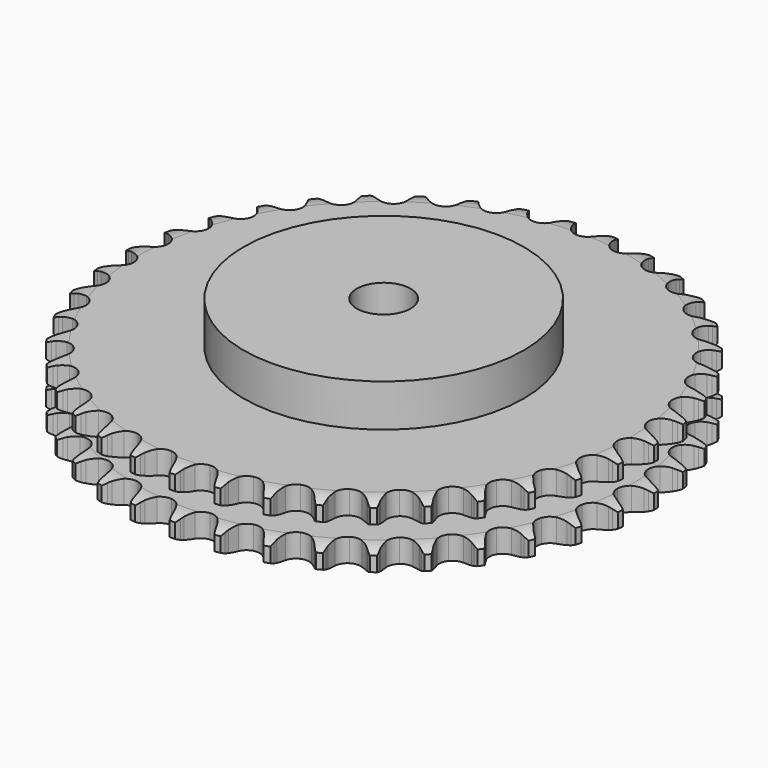
from build123d import *

# Parameters (mm, degrees)
PAD_DEPTH         = 30.3
SKETCH001_R       = 65
PAD001_DEPTH      = 50
SKETCH002_R       = 12.5
POCKET_DEPTH      = 0.001
POCKET_DEPTH_BACK = 50.001


with BuildPart() as part:
    # Sprocket → Pad (new body)
    with BuildSketch(Plane.XY):
        with BuildLine():
            ThreePointArc((-10.012439, 124.026308), (-8.619754, 122.325503), (-7.64164, 120.35685))
            Line((-7.64164, 120.35685), (-7.053101, 118.737597))
            ThreePointArc((-7.053101, 118.737597), (-6.12318, 116.660231), (-4.903721, 114.738481))
            ThreePointArc((-4.903721, 114.738481), (-2.745245, 112.921123), (0, 112.268866))
            ThreePointArc((0, 112.268866), (2.745245, 112.921123), (4.903721, 114.738481))
            ThreePointArc((4.903721, 114.738481), (6.12318, 116.660231), (7.053101, 118.737597))
            Line((7.053101, 118.737597), (7.64164, 120.35685))
            ThreePointArc((7.64164, 120.35685), (8.619754, 122.325503), (10.012439, 124.026308))
            ThreePointArc((10.012439, 124.026308), (11.11426, 122.124126), (11.763914, 120.024066))
            Line((11.763914, 120.024066), (12.085085, 118.331373))
            ThreePointArc((12.085085, 118.331373), (12.66973, 116.131739), (13.565127, 114.03926))
            ThreePointArc((13.565127, 114.03926), (15.404127, 111.899192), (18.009193, 110.815013))
            ThreePointArc((18.009193, 110.815013), (20.823517, 111.018456), (23.245566, 112.466036))
            Line((23.245566, 112.466036), (26.008615, 116.06858))
            ThreePointArc((26.008615, 116.06858), (26.40838, 116.832014), (26.849279, 117.572455))
            ThreePointArc((26.849279, 117.572455), (28.130521, 119.358715), (29.777999, 120.814091))
            ThreePointArc((29.777999, 120.814091), (30.560421, 118.759798), (30.864788, 116.582721))
            Line((30.864788, 116.582721), (30.910274, 114.860429))
            ThreePointArc((30.910274, 114.860429), (31.134502, 112.595496), (31.682646, 110.386482))
            ThreePointArc((31.682646, 110.386482), (33.15454, 107.979131), (35.551956, 106.49111))
            ThreePointArc((35.551956, 106.49111), (38.362471, 106.240469), (40.985363, 107.280779))
            Line((40.985363, 107.280779), (44.29052, 110.393447))
            ThreePointArc((44.29052, 110.393447), (44.807571, 111.082868), (45.361536, 111.742995))
            ThreePointArc((45.361536, 111.742995), (46.912723, 113.300598), (48.772325, 114.472854))
            ThreePointArc((48.772325, 114.472854), (49.215083, 112.319654), (49.166281, 110.121945))
            Line((49.166281, 110.121945), (48.934902, 108.41466))
            ThreePointArc((48.934902, 108.41466), (48.792906, 106.143088), (48.979601, 103.874752))
            ThreePointArc((48.979601, 103.874752), (50.046269, 101.262468), (52.173943, 99.409144))
            ThreePointArc((52.173943, 99.409144), (54.907856, 98.71091), (57.663661, 99.317007))
            Line((57.663661, 99.317007), (61.425323, 101.859182))
            ThreePointArc((61.425323, 101.859182), (62.04627, 102.456734), (62.698953, 103.019451))
            ThreePointArc((62.698953, 103.019451), (64.479909, 104.308055), (66.503473, 105.166829))
            ThreePointArc((66.503473, 105.166829), (66.5951, 102.970489), (66.194393, 100.809069))
            Line((66.194393, 100.809069), (65.692143, 99.161008))
            ThreePointArc((65.692143, 99.161008), (65.187599, 96.941631), (65.00801, 94.672721))
            ThreePointArc((65.00801, 94.672721), (65.641825, 91.923159), (67.444653, 89.752532))
            ThreePointArc((67.444653, 89.752532), (70.031157, 88.62479), (72.8485, 88.780976))
            Line((72.8485, 88.780976), (76.969243, 90.686817))
            ThreePointArc((76.969243, 90.686817), (77.678003, 91.177025), (78.4125, 91.627757))
            ThreePointArc((78.4125, 91.627757), (80.3771, 92.613988), (82.512216, 93.137039))
            ThreePointArc((82.512216, 93.137039), (82.250339, 90.954443), (81.508105, 88.88529))
            Line((81.508105, 88.88529), (80.747991, 87.339139))
            ThreePointArc((80.747991, 87.339139), (79.893968, 85.229436), (79.352746, 83.018716))
            ThreePointArc((79.352746, 83.018716), (79.537292, 80.203089), (80.968581, 77.771377))
            ThreePointArc((80.968581, 77.771377), (83.340688, 76.243334), (86.146601, 75.945564))
            Line((86.146601, 75.945564), (90.5197, 77.165712))
            ThreePointArc((90.5197, 77.165712), (91.297917, 77.535878), (92.095205, 77.862952))
            ThreePointArc((92.095205, 77.862952), (94.192566, 78.521268), (96.383937, 78.695049))
            ThreePointArc((96.383937, 78.695049), (95.775337, 76.582725), (94.710799, 74.65943))
            Line((94.710799, 74.65943), (93.712509, 73.255231))
            ThreePointArc((93.712509, 73.255231), (92.531125, 71.309843), (91.642288, 69.21457))
            ThreePointArc((91.642288, 69.21457), (91.372785, 66.405802), (92.395465, 63.775985))
            ThreePointArc((92.395465, 63.775985), (94.491739, 61.887217), (97.21355, 61.143203))
            Line((97.21355, 61.143203), (101.725744, 61.646055))
            ThreePointArc((101.725744, 61.646055), (102.553263, 61.886593), (103.392692, 62.081537))
            ThreePointArc((103.392692, 62.081537), (105.568494, 62.394888), (107.759364, 62.214898))
            ThreePointArc((107.759364, 62.214898), (106.819805, 60.227554), (105.460534, 58.499929))
            Line((105.460534, 58.499929), (104.249922, 57.274051))
            ThreePointArc((104.249922, 57.274051), (102.771775, 55.543363), (101.558342, 53.617803))
            ThreePointArc((101.558342, 53.617803), (100.841771, 50.888638), (101.429356, 48.128828))
            ThreePointArc((101.429356, 48.128828), (103.195504, 45.928253), (105.76272, 44.757264))
            Line((105.76272, 44.757264), (110.297145, 44.529798))
            ThreePointArc((110.297145, 44.529798), (111.152532, 44.634478), (112.012362, 44.692243))
            ThreePointArc((112.012362, 44.692243), (114.210254, 44.652513), (116.34388, 44.123413))
            ThreePointArc((116.34388, 44.123413), (115.097695, 42.312521), (113.478897, 40.825311))
            Line((113.478897, 40.825311), (112.087317, 39.809504))
            ThreePointArc((112.087317, 39.809504), (110.350689, 38.338339), (108.844088, 36.632362))
            ThreePointArc((108.844088, 36.632362), (107.699009, 34.053486), (107.836279, 31.235159))
            ThreePointArc((107.836279, 31.235159), (109.226559, 28.779771), (111.57269, 27.212136))
            Line((111.57269, 27.212136), (116.011908, 26.260242))
            ThreePointArc((116.011908, 26.260242), (116.87301, 26.226353), (117.730972, 26.145444))
            ThreePointArc((117.730972, 26.145444), (119.894028, 25.753661), (121.91515, 24.889156))
            ThreePointArc((121.91515, 24.889156), (120.394616, 23.301617), (118.558215, 22.093339))
            Line((118.558215, 22.093339), (117.021709, 21.313911))
            ThreePointArc((117.021709, 21.313911), (115.071579, 20.140372), (113.31083, 18.698163))
            ThreePointArc((113.31083, 18.698163), (111.766898, 16.336367), (111.450299, 13.532516))
            ThreePointArc((111.450299, 13.532516), (112.428704, 10.885908), (114.492987, 8.962228))
            Line((114.492987, 8.962228), (118.722024, 7.31056))
            ThreePointArc((118.722024, 7.31056), (119.566538, 7.138979), (120.400411, 6.921491))
            ThreePointArc((120.400411, 6.921491), (122.472609, 6.187804), (124.328882, 5.010283))
            ThreePointArc((124.328882, 5.010283), (122.57338, 3.687212), (120.566938, 2.789161))
            Line((120.566938, 2.789161), (118.9253, 2.266299))
            ThreePointArc((118.9253, 2.266299), (116.812175, 1.42078), (114.842881, 0.279692))
            ThreePointArc((114.842881, 0.279692), (112.940084, -1.803856), (112.177816, -4.520611))
            ThreePointArc((112.177816, -4.520611), (112.719004, -7.289894), (114.447975, -9.519797))
            Line((114.447975, -9.519797), (118.357301, -11.828461))
            ThreePointArc((118.357301, -11.828461), (119.163356, -12.13329), (119.951542, -12.481724))
            ThreePointArc((119.951542, -12.481724), (121.879215, -13.538315), (123.522562, -14.998354))
            ThreePointArc((123.522562, -14.998354), (121.577557, -16.022689), (119.453041, -16.587255))
            Line((119.453041, -16.587255), (117.748789, -16.840008))
            ThreePointArc((117.748789, -16.840008), (115.527397, -17.335609), (113.400562, -18.146024))
            ThreePointArc((113.400562, -18.146024), (111.18818, -19.89736), (109.999985, -22.456658))
            ThreePointArc((109.999985, -22.456658), (110.089941, -25.276891), (111.438821, -27.755265))
            Line((111.438821, -27.755265), (114.927186, -30.661132))
            ThreePointArc((114.927186, -30.661132), (115.673905, -31.091314), (116.395992, -31.56167))
            ThreePointArc((116.395992, -31.56167), (118.129213, -32.913798), (119.517072, -34.618542))
            ThreePointArc((119.517072, -34.618542), (117.43294, -35.317611), (115.245372, -35.53407))
            Line((115.245372, -35.53407), (113.522646, -35.510169))
            ThreePointArc((113.522646, -35.510169), (111.25052, -35.643015), (109.021227, -36.101767))
            ThreePointArc((109.021227, -36.101767), (106.556561, -37.475533), (104.973213, -39.811088))
            ThreePointArc((104.973213, -39.811088), (104.609607, -42.609231), (105.54346, -45.271885))
            Line((105.54346, -45.271885), (108.520518, -48.699696))
            ThreePointArc((108.520518, -48.699696), (109.188561, -49.244089), (109.825847, -49.824185))
            ThreePointArc((109.825847, -49.824185), (111.319726, -51.436832), (112.416152, -53.342128))
            ThreePointArc((112.416152, -53.342128), (110.246871, -53.697826), (108.052909, -53.560571))
            Line((108.052909, -53.560571), (106.356326, -53.260634))
            ThreePointArc((106.356326, -53.260634), (104.092314, -53.027286), (101.8183, -53.122493))
            ThreePointArc((101.8183, -53.122493), (99.165184, -54.083109), (97.22769, -56.134433))
            ThreePointArc((97.22769, -56.134433), (96.419939, -58.838014), (96.914579, -61.615988))
            Line((96.914579, -61.615988), (99.303225, -65.476963))
            ThreePointArc((99.303225, -65.476963), (99.87529, -66.121467), (100.41127, -66.796279))
            ThreePointArc((100.41127, -66.796279), (101.627116, -68.627678), (102.403714, -70.68418))
            ThreePointArc((102.403714, -70.68418), (100.205466, -70.687295), (98.061933, -70.199881))
            Line((98.061933, -70.199881), (96.435433, -69.631678))
            ThreePointArc((96.435433, -69.631678), (94.238171, -69.038178), (91.978333, -68.767375))
            ThreePointArc((91.978333, -68.767375), (89.20548, -69.289962), (86.96402, -71.003925))
            ThreePointArc((86.96402, -71.003925), (85.733045, -73.542923), (85.775661, -76.364269))
            Line((85.775661, -76.364269), (87.514031, -80.558411))
            ThreePointArc((87.514031, -80.558411), (87.975302, -81.286335), (88.396093, -82.038385))
            ThreePointArc((88.396093, -82.038385), (89.302418, -84.041103), (89.739073, -86.195549))
            ThreePointArc((89.739073, -86.195549), (87.568792, -85.846), (85.531204, -85.021051))
            Line((85.531204, -85.021051), (84.016913, -84.199297))
            ThreePointArc((84.016913, -84.199297), (81.943309, -83.261017), (79.756175, -82.631218))
            ThreePointArc((79.756175, -82.631218), (76.935401, -82.70224), (74.448029, -84.034453))
            ThreePointArc((74.448029, -84.034453), (72.82571, -86.343109), (72.415198, -89.134755))
            Line((72.415198, -89.134755), (73.458269, -93.553438))
            ThreePointArc((73.458269, -93.553438), (73.7968, -94.345929), (74.091505, -95.15574))
            ThreePointArc((74.091505, -95.15574), (74.664834, -97.277908), (74.750237, -99.474499))
            ThreePointArc((74.750237, -99.474499), (72.664132, -98.781339), (70.785261, -97.640221))
            Line((70.785261, -97.640221), (69.422399, -96.586199))
            ThreePointArc((69.422399, -96.586199), (67.526158, -95.32744), (65.468374, -94.354955))
            ThreePointArc((65.468374, -94.354955), (62.672735, -93.972574), (60.003872, -94.888532))
            ThreePointArc((60.003872, -94.888532), (58.032227, -96.907053), (57.17922, -99.596698))
            Line((57.17922, -99.596698), (57.499977, -104.125481))
            ThreePointArc((57.499977, -104.125481), (57.706999, -104.962013), (57.867985, -105.808612))
            ThreePointArc((57.867985, -105.808612), (58.093471, -107.995267), (57.825409, -110.177112))
            ThreePointArc((57.825409, -110.177112), (55.87751, -109.158293), (54.206018, -107.73056))
            Line((54.206018, -107.73056), (53.029881, -106.471569))
            ThreePointArc((53.029881, -106.471569), (51.360115, -104.924932), (49.484976, -103.634949))
            ThreePointArc((49.484976, -103.634949), (46.786879, -102.809067), (44.005647, -103.285049))
            ThreePointArc((44.005647, -103.285049), (41.735741, -104.961156), (40.462331, -107.479139))
            Line((40.462331, -107.479139), (40.052466, -112.000728))
            ThreePointArc((40.052466, -112.000728), (40.122618, -112.859637), (40.145715, -113.721095))
            ThreePointArc((40.145715, -113.721095), (40.017516, -115.915604), (39.402934, -118.026195))
            ThreePointArc((39.402934, -118.026195), (37.643689, -116.708104), (36.222867, -115.030734))
            Line((36.222867, -115.030734), (35.263917, -113.599381))
            ThreePointArc((35.263917, -113.599381), (33.863872, -111.804924), (32.219944, -110.230852))
            ThreePointArc((32.219944, -110.230852), (29.689267, -108.98286), (26.867698, -109.006537))
            ThreePointArc((26.867698, -109.006537), (24.35832, -110.296821), (22.697488, -112.577927))
            Line((22.697488, -112.577927), (21.567617, -116.975216))
            ThreePointArc((21.567617, -116.975216), (21.499082, -117.834255), (21.383692, -118.688263))
            ThreePointArc((21.383692, -118.688263), (20.905129, -120.833789), (19.959943, -122.818462))
            ThreePointArc((19.959943, -122.818462), (18.434917, -121.235238), (17.301563, -119.351673))
            Line((17.301563, -119.351673), (16.584637, -117.785029))
            ThreePointArc((16.584637, -117.785029), (15.490573, -115.789226), (14.120432, -113.971834))
            ThreePointArc((14.120432, -113.971834), (11.822718, -112.334054), (9.03389, -111.904812))
            ThreePointArc((9.03389, -111.904812), (6.350032, -112.775855), (4.344792, -114.761005))
            Line((4.344792, -114.761005), (2.524178, -118.920106))
            ThreePointArc((2.524178, -118.920106), (2.318731, -119.757027), (2.067842, -120.581466))
            ThreePointArc((2.067842, -120.581466), (1.251311, -122.622442), (0, -124.429795))
            ThreePointArc((0, -124.429795), (-1.251311, -122.622442), (-2.067842, -120.581466))
            Line((-2.067842, -120.581466), (-2.524178, -118.920106))
            ThreePointArc((-2.524178, -118.920106), (-3.283924, -116.774649), (-4.344792, -114.761005))
            ThreePointArc((-4.344792, -114.761005), (-6.350032, -112.775855), (-9.03389, -111.904812))
            ThreePointArc((-9.03389, -111.904812), (-11.822718, -112.334054), (-14.120432, -113.971834))
            Line((-14.120432, -113.971834), (-16.584637, -117.785029))
            ThreePointArc((-16.584637, -117.785029), (-16.921675, -118.578156), (-17.301563, -119.351673))
            ThreePointArc((-17.301563, -119.351673), (-18.434917, -121.235238), (-19.959943, -122.818462))
            ThreePointArc((-19.959943, -122.818462), (-20.905129, -120.833789), (-21.383692, -118.688263))
            Line((-21.383692, -118.688263), (-21.567617, -116.975216))
            ThreePointArc((-21.567617, -116.975216), (-21.973369, -114.73567), (-22.697488, -112.577927))
            ThreePointArc((-22.697488, -112.577927), (-24.35832, -110.296821), (-26.867698, -109.006537))
            ThreePointArc((-26.867698, -109.006537), (-29.689267, -108.98286), (-32.219944, -110.230852))
            Line((-32.219944, -110.230852), (-35.263917, -113.599381))
            ThreePointArc((-35.263917, -113.599381), (-35.723817, -114.328172), (-36.222867, -115.030734))
            ThreePointArc((-36.222867, -115.030734), (-37.643689, -116.708104), (-39.402934, -118.026195))
            ThreePointArc((-39.402934, -118.026195), (-40.017516, -115.915604), (-40.145715, -113.721095))
            Line((-40.145715, -113.721095), (-40.052466, -112.000728))
            ThreePointArc((-40.052466, -112.000728), (-40.093715, -109.725097), (-40.462331, -107.479139))
            ThreePointArc((-40.462331, -107.479139), (-41.735741, -104.961156), (-44.005647, -103.285049))
            ThreePointArc((-44.005647, -103.285049), (-46.786879, -102.809067), (-49.484976, -103.634949))
            Line((-49.484976, -103.634949), (-53.029881, -106.471569))
            ThreePointArc((-53.029881, -106.471569), (-53.600732, -107.117149), (-54.206018, -107.73056))
            ThreePointArc((-54.206018, -107.73056), (-55.87751, -109.158293), (-57.825409, -110.177112))
            ThreePointArc((-57.825409, -110.177112), (-58.093471, -107.995267), (-57.867985, -105.808612))
            Line((-57.867985, -105.808612), (-57.499977, -104.125481))
            ThreePointArc((-57.499977, -104.125481), (-57.175655, -101.872701), (-57.17922, -99.596698))
            ThreePointArc((-57.17922, -99.596698), (-58.032227, -96.907053), (-60.003872, -94.888532))
            ThreePointArc((-60.003872, -94.888532), (-62.672735, -93.972574), (-65.468374, -94.354955))
            Line((-65.468374, -94.354955), (-69.422399, -96.586199))
            ThreePointArc((-69.422399, -96.586199), (-70.089415, -97.131848), (-70.785261, -97.640221))
            ThreePointArc((-70.785261, -97.640221), (-72.664132, -98.781339), (-74.750237, -99.474499))
            ThreePointArc((-74.750237, -99.474499), (-74.664834, -97.277908), (-74.091505, -95.15574))
            Line((-74.091505, -95.15574), (-73.458269, -93.553438))
            ThreePointArc((-73.458269, -93.553438), (-72.776776, -91.381856), (-72.415198, -89.134755))
            ThreePointArc((-72.415198, -89.134755), (-72.82571, -86.343109), (-74.448029, -84.034453))
            ThreePointArc((-74.448029, -84.034453), (-76.935401, -82.70224), (-79.756175, -82.631218))
            Line((-79.756175, -82.631218), (-84.016913, -84.199297))
            ThreePointArc((-84.016913, -84.199297), (-84.76282, -84.630883), (-85.531204, -85.021051))
            ThreePointArc((-85.531204, -85.021051), (-87.568792, -85.846), (-89.739073, -86.195549))
            ThreePointArc((-89.739073, -86.195549), (-89.302418, -84.041103), (-88.396093, -82.038385))
            Line((-88.396093, -82.038385), (-87.514031, -80.558411))
            ThreePointArc((-87.514031, -80.558411), (-86.493017, -78.524269), (-85.775661, -76.364269))
            ThreePointArc((-85.775661, -76.364269), (-85.733045, -73.542923), (-86.96402, -71.003925))
            ThreePointArc((-86.96402, -71.003925), (-89.20548, -69.289962), (-91.978333, -68.767375))
            Line((-91.978333, -68.767375), (-96.435433, -69.631678))
            ThreePointArc((-96.435433, -69.631678), (-97.240912, -69.938023), (-98.061933, -70.199881))
            ThreePointArc((-98.061933, -70.199881), (-100.205466, -70.687295), (-102.403714, -70.68418))
            ThreePointArc((-102.403714, -70.68418), (-101.627116, -68.627678), (-100.41127, -66.796279))
            Line((-100.41127, -66.796279), (-99.303225, -65.476963))
            ThreePointArc((-99.303225, -65.476963), (-97.969133, -63.632945), (-96.914579, -61.615988))
            ThreePointArc((-96.914579, -61.615988), (-96.419939, -58.838014), (-97.22769, -56.134433))
            ThreePointArc((-97.22769, -56.134433), (-99.165184, -54.083109), (-101.8183, -53.122493))
            Line((-101.8183, -53.122493), (-106.356326, -53.260634))
            ThreePointArc((-106.356326, -53.260634), (-107.200516, -53.433805), (-108.052909, -53.560571))
            ThreePointArc((-108.052909, -53.560571), (-110.246871, -53.697826), (-112.416152, -53.342128))
            ThreePointArc((-112.416152, -53.342128), (-111.319726, -51.436832), (-109.825847, -49.824185))
            Line((-109.825847, -49.824185), (-108.520518, -48.699696))
            ThreePointArc((-108.520518, -48.699696), (-106.907901, -47.093561), (-105.54346, -45.271885))
            ThreePointArc((-105.54346, -45.271885), (-104.609607, -42.609231), (-104.973213, -39.811088))
            ThreePointArc((-104.973213, -39.811088), (-106.556561, -37.475533), (-109.021227, -36.101767))
            Line((-109.021227, -36.101767), (-113.522646, -35.510169))
            ThreePointArc((-113.522646, -35.510169), (-114.383682, -35.545679), (-115.245372, -35.53407))
            ThreePointArc((-115.245372, -35.53407), (-117.43294, -35.317611), (-119.517072, -34.618542))
            ThreePointArc((-119.517072, -34.618542), (-118.129213, -32.913798), (-116.395992, -31.56167))
            Line((-116.395992, -31.56167), (-114.927186, -30.661132))
            ThreePointArc((-114.927186, -30.661132), (-113.07781, -29.334478), (-111.438821, -27.755265))
            ThreePointArc((-111.438821, -27.755265), (-110.089941, -25.276891), (-109.999985, -22.456658))
            ThreePointArc((-109.999985, -22.456658), (-111.18818, -19.89736), (-113.400562, -18.146024))
            Line((-113.400562, -18.146024), (-117.748789, -16.840008))
            ThreePointArc((-117.748789, -16.840008), (-118.604372, -16.736939), (-119.453041, -16.587255))
            ThreePointArc((-119.453041, -16.587255), (-121.577557, -16.022689), (-123.522562, -14.998354))
            ThreePointArc((-123.522562, -14.998354), (-121.879215, -13.538315), (-119.951542, -12.481724))
            Line((-119.951542, -12.481724), (-118.357301, -11.828461))
            ThreePointArc((-118.357301, -11.828461), (-116.319064, -10.815648), (-114.447975, -9.519797))
            ThreePointArc((-114.447975, -9.519797), (-112.719004, -7.289894), (-112.177816, -4.520611))
            ThreePointArc((-112.177816, -4.520611), (-112.940084, -1.803856), (-114.842881, 0.279692))
            Line((-114.842881, 0.279692), (-118.9253, 2.266299))
            ThreePointArc((-118.9253, 2.266299), (-119.75327, 2.505279), (-120.566938, 2.789161))
            ThreePointArc((-120.566938, 2.789161), (-122.57338, 3.687212), (-124.328882, 5.010283))
            ThreePointArc((-124.328882, 5.010283), (-122.472609, 6.187804), (-120.400411, 6.921491))
            Line((-120.400411, 6.921491), (-118.722024, 7.31056))
            ThreePointArc((-118.722024, 7.31056), (-116.547714, 7.983302), (-114.492987, 8.962228))
            ThreePointArc((-114.492987, 8.962228), (-112.428704, 10.885908), (-111.450299, 13.532516))
            ThreePointArc((-111.450299, 13.532516), (-111.766898, 16.336367), (-113.31083, 18.698163))
            Line((-113.31083, 18.698163), (-117.021709, 21.313911))
            ThreePointArc((-117.021709, 21.313911), (-117.800621, 21.682612), (-118.558215, 22.093339))
            ThreePointArc((-118.558215, 22.093339), (-120.394616, 23.301617), (-121.91515, 24.889156))
            ThreePointArc((-121.91515, 24.889156), (-119.894028, 25.753661), (-117.730972, 26.145444))
            Line((-117.730972, 26.145444), (-116.011908, 26.260242))
            ThreePointArc((-116.011908, 26.260242), (-113.75784, 26.575488), (-111.57269, 27.212136))
            ThreePointArc((-111.57269, 27.212136), (-109.226559, 28.779771), (-107.836279, 31.235159))
            ThreePointArc((-107.836279, 31.235159), (-107.699009, 34.053486), (-108.844088, 36.632362))
            Line((-108.844088, 36.632362), (-112.087317, 39.809504))
            ThreePointArc((-112.087317, 39.809504), (-112.796999, 40.298376), (-113.478897, 40.825311))
            ThreePointArc((-113.478897, 40.825311), (-115.097695, 42.312521), (-116.34388, 44.123413))
            ThreePointArc((-116.34388, 44.123413), (-114.210254, 44.652513), (-112.012362, 44.692243))
            Line((-112.012362, 44.692243), (-110.297145, 44.529798))
            ThreePointArc((-110.297145, 44.529798), (-108.021698, 44.479383), (-105.76272, 44.757264))
            ThreePointArc((-105.76272, 44.757264), (-103.195504, 45.928253), (-101.429356, 48.128828))
            ThreePointArc((-101.429356, 48.128828), (-100.841771, 50.888638), (-101.558342, 53.617803))
            Line((-101.558342, 53.617803), (-104.249922, 57.274051))
            ThreePointArc((-104.249922, 57.274051), (-104.871993, 57.870434), (-105.460534, 58.499929))
            ThreePointArc((-105.460534, 58.499929), (-106.819805, 60.227554), (-107.759364, 62.214898))
            ThreePointArc((-107.759364, 62.214898), (-105.568494, 62.394888), (-103.392692, 62.081537))
            Line((-103.392692, 62.081537), (-101.725744, 61.646055))
            ThreePointArc((-101.725744, 61.646055), (-99.487851, 61.231286), (-97.21355, 61.143203))
            ThreePointArc((-97.21355, 61.143203), (-94.491739, 61.887217), (-92.395465, 63.775985))
            ThreePointArc((-92.395465, 63.775985), (-91.372785, 66.405802), (-91.642288, 69.21457))
            Line((-91.642288, 69.21457), (-93.712509, 73.255231))
            ThreePointArc((-93.712509, 73.255231), (-94.230858, 73.943678), (-94.710799, 74.65943))
            ThreePointArc((-94.710799, 74.65943), (-95.775337, 76.582725), (-96.383937, 78.695049))
            ThreePointArc((-96.383937, 78.695049), (-94.192566, 78.521268), (-92.095205, 77.862952))
            Line((-92.095205, 77.862952), (-90.5197, 77.165712))
            ThreePointArc((-90.5197, 77.165712), (-88.37732, 76.39733), (-86.146601, 75.945564))
            ThreePointArc((-86.146601, 75.945564), (-83.340688, 76.243334), (-80.968581, 77.771377))
            ThreePointArc((-80.968581, 77.771377), (-79.537292, 80.203089), (-79.352746, 83.018716))
            Line((-79.352746, 83.018716), (-80.747991, 87.339139))
            ThreePointArc((-80.747991, 87.339139), (-81.149193, 88.101819), (-81.508105, 88.88529))
            ThreePointArc((-81.508105, 88.88529), (-82.250339, 90.954443), (-82.512216, 93.137039))
            ThreePointArc((-82.512216, 93.137039), (-80.3771, 92.613988), (-78.4125, 91.627757))
            Line((-78.4125, 91.627757), (-76.969243, 90.686817))
            ThreePointArc((-76.969243, 90.686817), (-74.977863, 89.584724), (-72.8485, 88.780976))
            ThreePointArc((-72.8485, 88.780976), (-70.031157, 88.62479), (-67.444653, 89.752532))
            ThreePointArc((-67.444653, 89.752532), (-65.641825, 91.923159), (-65.00801, 94.672721))
            Line((-65.00801, 94.672721), (-65.692143, 99.161008))
            ThreePointArc((-65.692143, 99.161008), (-65.965807, 99.97817), (-66.194393, 100.809069))
            ThreePointArc((-66.194393, 100.809069), (-66.5951, 102.970489), (-66.503473, 105.166829))
            ThreePointArc((-66.503473, 105.166829), (-64.479909, 104.308055), (-62.698953, 103.019451))
            Line((-62.698953, 103.019451), (-61.425323, 101.859182))
            ThreePointArc((-61.425323, 101.859182), (-59.636519, 100.451921), (-57.663661, 99.317007))
            ThreePointArc((-57.663661, 99.317007), (-54.907856, 98.71091), (-52.173943, 99.409144))
            ThreePointArc((-52.173943, 99.409144), (-50.046269, 101.262468), (-48.979601, 103.874752))
            Line((-48.979601, 103.874752), (-48.934902, 108.41466))
            ThreePointArc((-48.934902, 108.41466), (-49.07394, 109.265138), (-49.166281, 110.121945))
            ThreePointArc((-49.166281, 110.121945), (-49.215083, 112.319654), (-48.772325, 114.472854))
            ThreePointArc((-48.772325, 114.472854), (-46.912723, 113.300598), (-45.361536, 111.742995))
            Line((-45.361536, 111.742995), (-44.29052, 110.393447))
            ThreePointArc((-44.29052, 110.393447), (-42.750621, 108.717465), (-40.985363, 107.280779))
            ThreePointArc((-40.985363, 107.280779), (-38.362471, 106.240469), (-35.551956, 106.49111))
            ThreePointArc((-35.551956, 106.49111), (-33.15454, 107.979131), (-31.682646, 110.386482))
            Line((-31.682646, 110.386482), (-30.910274, 114.860429))
            ThreePointArc((-30.910274, 114.860429), (-30.911085, 115.722197), (-30.864788, 116.582721))
            ThreePointArc((-30.864788, 116.582721), (-30.560421, 118.759798), (-29.777999, 120.814091))
            ThreePointArc((-29.777999, 120.814091), (-28.130521, 119.358715), (-26.849279, 117.572455))
            Line((-26.849279, 117.572455), (-26.008615, 116.06858))
            ThreePointArc((-26.008615, 116.06858), (-24.757504, 114.167284), (-23.245566, 112.466036))
            ThreePointArc((-23.245566, 112.466036), (-20.823517, 111.018456), (-18.009193, 110.815013))
            ThreePointArc((-18.009193, 110.815013), (-15.404127, 111.899192), (-13.565127, 114.03926))
            Line((-13.565127, 114.03926), (-12.085085, 118.331373))
            ThreePointArc((-12.085085, 118.331373), (-11.947649, 119.182112), (-11.763914, 120.024066))
            ThreePointArc((-11.763914, 120.024066), (-11.11426, 122.124126), (-10.012439, 124.026308))
        make_face()
    extrude(amount=PAD_DEPTH)

    # Sketch → Groove (revolve, cut)
    with BuildSketch(Plane.XZ):
        with BuildLine():
            ThreePointArc((114.064719, 0), (118.423618, 0.506758), (122.55, 2))
            Line((122.55, 2), (122.55, 8.8))
            ThreePointArc((122.55, 8.8), (118.423618, 10.293242), (114.064719, 10.8))
            Line((65, 10.8), (114.064719, 10.8))
            Line((65, 19.5), (65, 10.8))
            Line((114.064719, 19.5), (65, 19.5))
            ThreePointArc((114.064719, 19.5), (118.423618, 20.006758), (122.55, 21.5))
            Line((122.55, 21.5), (122.55, 28.3))
            ThreePointArc((122.55, 28.3), (118.423618, 29.793242), (114.064719, 30.3))
            Line((114.064719, 30.3), (132.55, 30.3))
            Line((132.55, 30.3), (132.55, 0))
            Line((114.064719, 0), (132.55, 0))
        make_face()
    revolve(axis=Axis((0, 0, 0), (0, 0, 1)), mode=Mode.SUBTRACT)

    # Sketch001 → Pad001 (join)
    with BuildSketch(Plane.XY):
        Circle(SKETCH001_R)
    extrude(amount=PAD001_DEPTH)

    # Sketch002 → Pocket (cut, two sides)
    with BuildSketch(Plane.XY) as pocket_sk:
        Circle(SKETCH002_R)
    extrude(amount=-POCKET_DEPTH, mode=Mode.SUBTRACT)
    extrude(pocket_sk.sketch, amount=POCKET_DEPTH_BACK, mode=Mode.SUBTRACT)


solid = part.part
